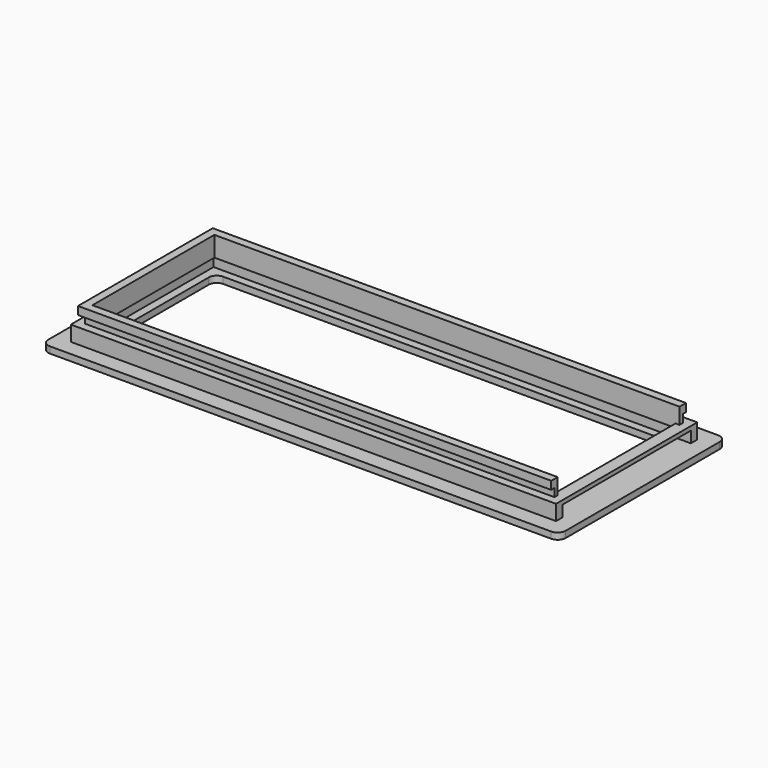
from build123d import *

# Parameters (mm, degrees)
F0_W     = 117
F0_H     = 40
F0_W_2   = 2
F1_DEPTH = 1.6
F2_DEPTH = 2.8
F3_W     = 119
F3_H     = 40
F3_W_2   = 115
F3_H_2   = 38
F4_DEPTH = 1
F6_DEPTH = 2
F8_DEPTH = 2


with BuildPart() as f1:
    # F0 (on Top) → F1 (new body)
    with BuildSketch(Plane.XY):
        with BuildLine():
            Line((62.5, 26), (-62.5, 26))
            ThreePointArc((-62.5, 26), (-63.914214, 25.414214), (-64.5, 24))
            Line((-64.5, 24), (-64.5, -24))
            ThreePointArc((-64.5, -24), (-63.914214, -25.414214), (-62.5, -26))
            Line((-62.5, -26), (62.5, -26))
            ThreePointArc((62.5, -26), (63.914214, -25.414214), (64.5, -24))
            Line((64.5, -24), (64.5, 24))
            ThreePointArc((64.5, 24), (63.914214, 25.414214), (62.5, 26))
        make_face()
        Polygon((60.5, 22), (60.5, 20), (60.5, -20), (60.5, -22), (-60.5, -22), (-60.5, 22), align=None, mode=Mode.SUBTRACT)
        Polygon((-58.5, -20), (-58.5, 20), (58.5, 20), (60.5, 20), (60.5, 22), (-60.5, 22), (-60.5, -22), (60.5, -22), (60.5, -20), (58.5, -20), align=None)
        Rectangle(F0_W, F0_H)
        with BuildLine():
            ThreePointArc((-56.5, 16), (-55.914214, 17.414214), (-54.5, 18))
            Line((-54.5, 18), (54.5, 18))
            ThreePointArc((54.5, 18), (55.914214, 17.414214), (56.5, 16))
            Line((56.5, 16), (56.5, -16))
            ThreePointArc((56.5, -16), (55.914214, -17.414214), (54.5, -18))
            Line((54.5, -18), (-54.5, -18))
            ThreePointArc((-54.5, -18), (-55.914214, -17.414214), (-56.5, -16))
            Line((-56.5, -16), (-56.5, 16))
        make_face(mode=Mode.SUBTRACT)
        with Locations((59.5, 0)):
            Rectangle(F0_W_2, F0_H)
    extrude(amount=-F1_DEPTH)

    # F0 (on Top) → F2 (join)
    with BuildSketch(Plane.XY):
        Polygon((-58.5, -20), (-58.5, 20), (58.5, 20), (60.5, 20), (60.5, 22), (-60.5, 22), (-60.5, -22), (60.5, -22), (60.5, -20), (58.5, -20), align=None)
    extrude(amount=F2_DEPTH)

    # F3 (on face) → F4 (join)
    with BuildSketch(Plane.XY.offset(2.8)):
        Polygon((60.5, 22), (-60.5, 22), (-60.5, -22), (60.5, -22), (60.5, -20), (-58.5, -20), (-58.5, 20), (60.5, 20), align=None)
        with Locations((1, 0)):
            Rectangle(F3_W, F3_H)
        Rectangle(F3_W_2, F3_H_2, mode=Mode.SUBTRACT)
    extrude(amount=F4_DEPTH)

    # F5 (on face) → F6 (join)
    with BuildSketch(Plane.XY.offset(3.8)):
        Polygon((-57.5, -19), (-57.5, 19), (57.5, 19), (58.5, 19), (58.5, 20), (-58.5, 20), (-58.5, -20), (58.5, -20), (58.5, -19), (57.5, -19), align=None)
    extrude(amount=F6_DEPTH)

    # F7 (on face) → F8 (join)
    with BuildSketch(Plane.XY.offset(5.8)):
        Polygon((-58.5, 20), (58.5, 20), (58.5, 21), (-59.5, 21), (-59.5, -21), (58.5, -21), (58.5, -20), (-58.5, -20), align=None)
        Polygon((-57.5, -19), (-57.5, 19), (57.5, 19), (58.5, 19), (58.5, 20), (-58.5, 20), (-58.5, -20), (58.5, -20), (58.5, -19), (57.5, -19), align=None)
    extrude(amount=F8_DEPTH)


solid = f1.part
